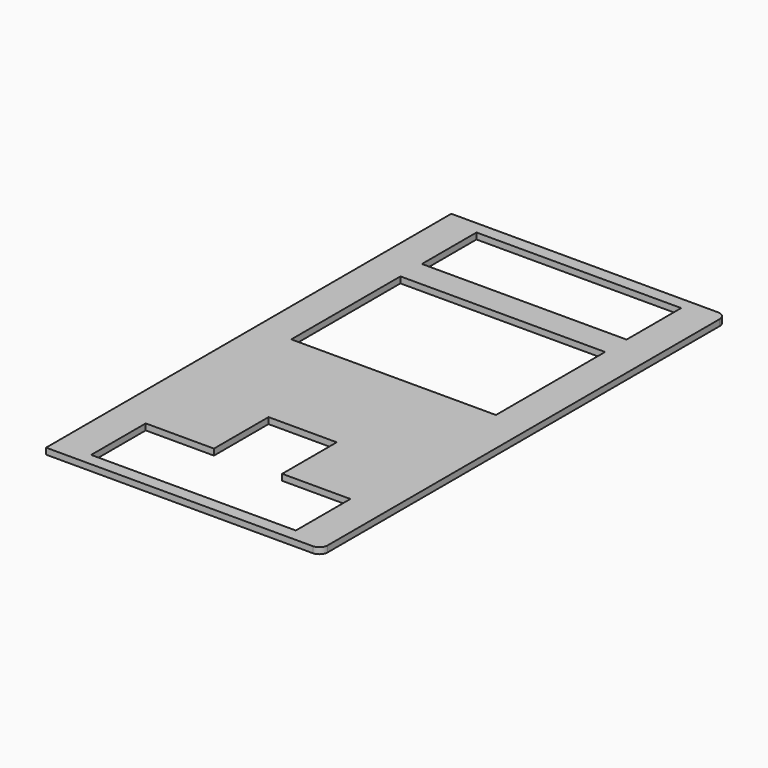
from build123d import *

# Parameters (mm, degrees)
F1_DEPTH = 1.5
F2_W     = 19
F2_H     = 23
F3_DEPTH = 1.2
F4_R     = 2


with BuildPart() as f1:
    # F0 (on Top) → F1 (new body)
    with BuildSketch(Plane.XY):
        Polygon((33.25, -61.25), (33.25, 61.25), (0, 61.25), (-33.25, 61.25), (-33.25, -61.25), (0, -61.25), align=None)
        Polygon((24.75, -58.25), (0, -58.25), (-24.75, -58.25), (-24.75, -41.75), (-8.25, -41.75), (-8.25, -25.25), (8.25, -25.25), (8.25, -41.75), (24.75, -41.75), align=None, mode=Mode.SUBTRACT)
        Polygon((-24.75, 35.25), (0, 35.25), (24.75, 35.25), (24.75, 2.25), (-24.75, 2.25), align=None, mode=Mode.SUBTRACT)
        Polygon((-24.75, 58.25), (0, 58.25), (24.75, 58.25), (24.75, 41.75), (0, 41.75), (-24.75, 41.75), align=None, mode=Mode.SUBTRACT)
    extrude(amount=F1_DEPTH)

    # F2 (on face) → F3 (cut)
    with BuildSketch(Plane(origin=(0, 0, 0), x_dir=(1, 0, 0), z_dir=(0, 0, -1))):
        with Locations((9.5, 11.5)):
            Rectangle(F2_W, F2_H)
        with Locations((-9.5, 11.5)):
            Rectangle(F2_W, F2_H)
    extrude(amount=-F3_DEPTH, mode=Mode.SUBTRACT)

    # F4
    f4_edges = [f1.edges().sort_by_distance(p)[0] for p in [
        (33.25, -61.25, 0.75),
        (33.25, 61.25, 0.75),
    ]]
    fillet(f4_edges, radius=F4_R)


solid = f1.part
